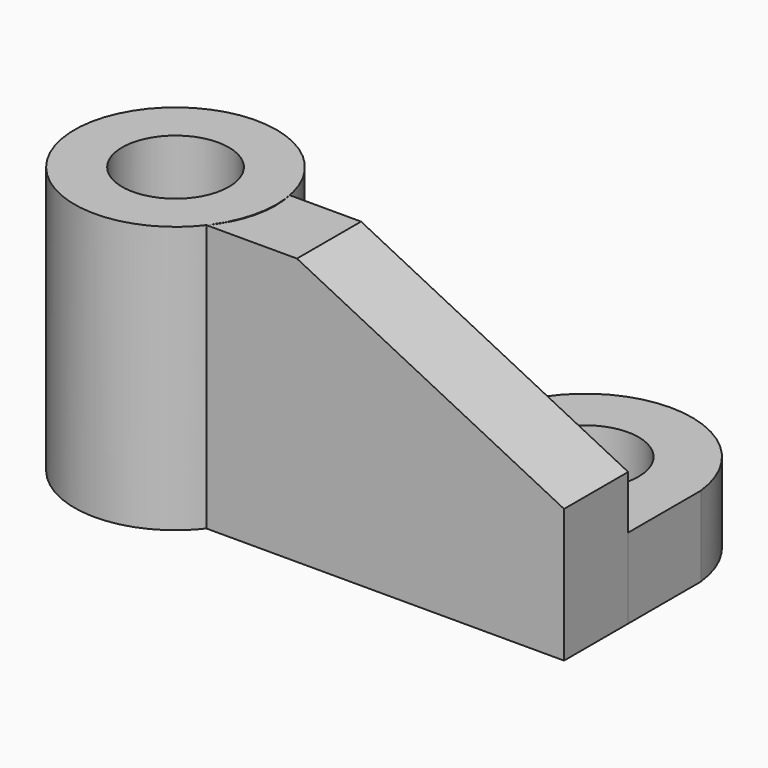
from build123d import *

# Parameters (mm, degrees)
F0_W      = 18.920604
F0_H      = 50
F2_R      = 10
F3_DEPTH  = 50
F5_DEPTH  = 50
F7_DEPTH  = 15
F9_DEPTH  = 15
F10_R     = 10
F11_DEPTH = 15


with BuildPart() as f1:
    # F0 (on Front) → F1 (revolve)
    with BuildSketch(Plane.XZ):
        with Locations((9.460302, 25)):
            Rectangle(F0_W, F0_H)
    revolve(axis=Axis((0, 0, 25), (0, 0, 1)))

    # F2 (on face) → F3 (cut)
    with BuildSketch(Plane.XY.offset(50)):
        Circle(F2_R)
    extrude(amount=-F3_DEPTH, mode=Mode.SUBTRACT)


with BuildPart() as f5:
    # F4 (on face) → F5 (new body)
    with BuildSketch(Plane.XY.offset(50)):
        with BuildLine():
            Line((81.948414, 3.484557), (18.596966, 3.484557))
            ThreePointArc((18.596966, 3.484557), (18.555036, -4.433635), (15.012789, -11.515443))
            Line((15.012789, -11.515443), (81.948414, -11.515443))
            Line((81.948414, -11.515443), (81.948414, 3.484557))
        make_face()
    extrude(amount=-F5_DEPTH)

    # F6 (on face) → F7 (cut)
    with BuildSketch(Plane(origin=(0, 3.484557, 0), x_dir=(-1, 0, 0), z_dir=(0, 1, 0))):
        Polygon((-81.948414, 25), (-31.948414, 50), (-81.948414, 50), align=None)
    extrude(amount=-F7_DEPTH, mode=Mode.SUBTRACT)


with BuildPart() as f9:
    # F8 (on face) → F9 (new body)
    with BuildSketch(Plane(origin=(0, 0, 0), x_dir=(1, 0, 0), z_dir=(0, 0, -1))):
        with BuildLine():
            ThreePointArc((18.596966, -3.484557), (15.67145, -10.852523), (9.803409, -16.182782))
            ThreePointArc((9.803409, -16.182782), (26.711889, -12.951517), (42.190619, -20.484557))
            ThreePointArc((42.190619, -20.484557), (62.069517, -38.286961), (81.948414, -20.484557))
            Line((81.948414, -20.484557), (81.948414, -3.484557))
            Line((81.948414, -3.484557), (18.596966, -3.484557))
        make_face()
    extrude(amount=-F9_DEPTH)

    # F10 (on face) → F11 (cut)
    with BuildSketch(Plane(origin=(0, 0, 0), x_dir=(1, 0, 0), z_dir=(0, 0, -1))):
        with Locations((62.069517, -18.286961)):
            Circle(F10_R)
    extrude(amount=-F11_DEPTH, mode=Mode.SUBTRACT)


solid = Compound([f1.part, f5.part, f9.part])
